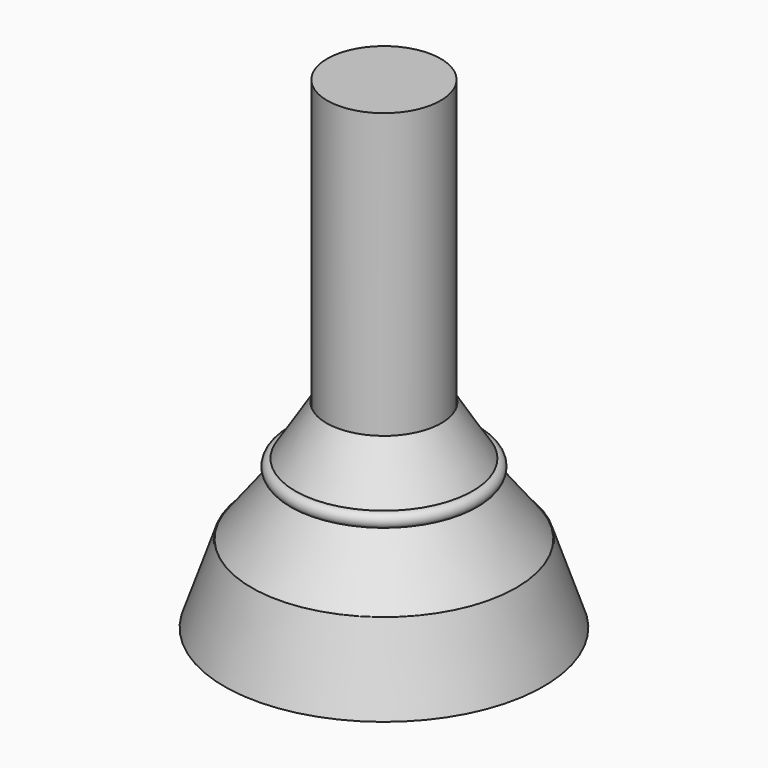
from build123d import *

# Parameters (mm, degrees)
F0_W = 8
F0_H = 59.9


with BuildPart() as f1:
    # F0 (on Front) → F1 (revolve)
    with BuildSketch(Plane.XZ):
        Polygon((-22.5, 0), (-1.5, 0), (-1.5, 1), (-3.5, 1), (-3.5, 1.2), (-18.75, 1.2), (-18.75, 11), align=None)
        with BuildLine():
            Line((-18.65, 11), (-18.65, 1.3))
            Line((-18.65, 1.3), (0, 1.3))
            Line((0, 1.3), (0, 8))
            Line((0, 8), (-8.1, 8))
            Line((-8.1, 8), (-8.1, 28))
            Line((-8.1, 28), (-12.5, 21))
            ThreePointArc((-12.5, 21), (-13.5, 20), (-12.5, 19))
            Line((-12.5, 19), (-18.65, 11))
        make_face()
        with Locations((-4, 38.05)):
            Rectangle(F0_W, F0_H)
    revolve(axis=Axis((0, 0, 0.069721), (0, 0, 1)))


solid = f1.part
